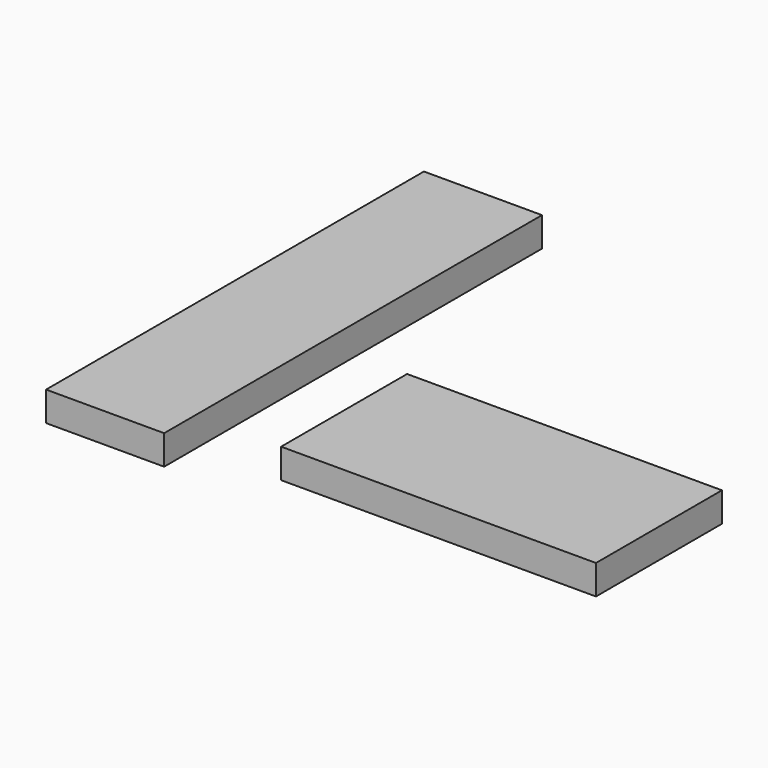
from build123d import *

# Parameters (mm, degrees)
F0_W     = 76.2
F0_H     = 304.8
F0_W_2   = 203.2
F0_H_2   = 101.6
F1_DEPTH = 19.05


with BuildPart() as f1:
    # F0 (on Top) → F1 (new body)
    with BuildSketch(Plane.XY):
        with Locations((-25.500957, 110.804977)):
            Rectangle(F0_W, F0_H)
        with Locations((169.419797, 34.542259)):
            Rectangle(F0_W_2, F0_H_2)
    extrude(amount=F1_DEPTH)


solid = f1.part
